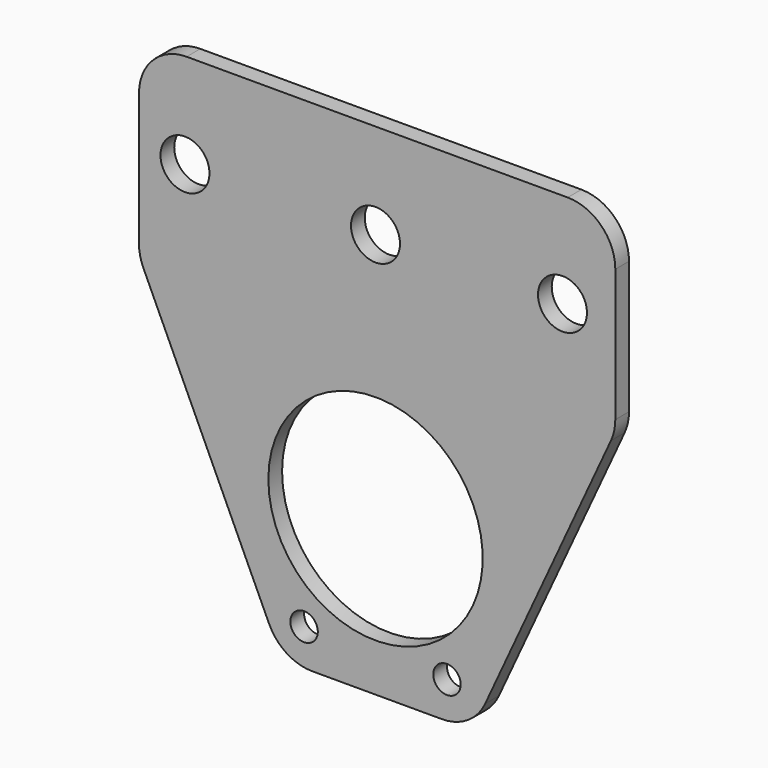
from build123d import *

# Parameters (mm, degrees)
F1_DEPTH = 2.286
F3_D     = 6.5278
F5_D     = 28.575
F7_D     = 3.6576


with BuildPart() as f1:
    # F0 (on Front) → F1 (new body)
    with BuildSketch(Plane.XZ):
        with BuildLine():
            Line((25.6157214167, 42.7900233197), (-25.1842785833, 42.7900233197))
            ThreePointArc((-25.1842785833, 42.7900233197), (-29.6744066438, 40.9301513802), (-31.5342785833, 36.4400233197))
            Line((-31.5342785833, 36.4400233197), (-31.5342785833, 18.7847172783))
            ThreePointArc((-31.5342785833, 18.7847172783), (-31.3864432168, 17.422493413), (-30.9498206749, 16.1236978514))
            Line((-30.9498206749, 16.1236978514), (-14.1868850016, -20.1959961072))
            ThreePointArc((-14.1868850016, -20.1959961072), (-11.8436978478, -22.8838070833), (-8.4213429101, -23.8849766803))
            Line((-8.4213429101, -23.8849766803), (8.8527857435, -23.8849766803))
            ThreePointArc((8.8527857435, -23.8849766803), (12.2751406812, -22.8838070833), (14.6183278351, -20.1959961072))
            Line((14.6183278351, -20.1959961072), (31.3812635083, 16.1236978514))
            ThreePointArc((31.3812635083, 16.1236978514), (31.8178860502, 17.422493413), (31.9657214167, 18.7847172783))
            Line((31.9657214167, 18.7847172783), (31.9657214167, 36.4400233197))
            ThreePointArc((31.9657214167, 36.4400233197), (30.1058494773, 40.9301513802), (25.6157214167, 42.7900233197))
        make_face()
    extrude(amount=F1_DEPTH)

    # F3 (through all)
    with Locations(Plane.XZ.offset(2.286)):
        with Locations((-25.4, 30.0900233197), (0, 30.0900233197), (24.9274426514, 30.0900233197)):
            Hole(F3_D / 2)

    # F5 (through all)
    with Locations(Plane.XZ.offset(2.286)):
        with Locations((0, -3.2474766803)):
            Hole(F5_D / 2)

    # F7 (through all)
    with Locations(Plane.XZ.offset(2.286)):
        with Locations((-9.525, -19.0081766803), (9.525, -19.0081766803)):
            Hole(F7_D / 2)


solid = f1.part
